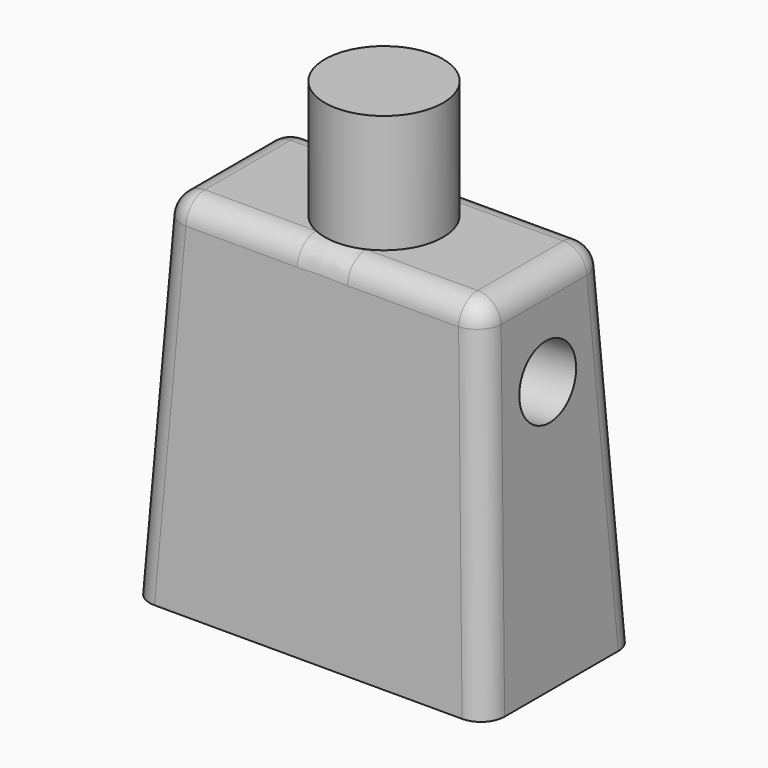
from build123d import *

# Parameters (mm, degrees)
F0_W      = 15
F0_H      = 8
F1_DEPTH  = 15
F1_TAPER  = 3
F2_R      = 2.5
F3_DEPTH  = 5
F4_R      = 1
F5_R      = 1.5
F6_DEPTH  = 3
F7_R      = 1.5
F6_FACE_R = 1.5
F8_DEPTH  = 3


with BuildPart() as f1:
    # F0 (on Top) → F1 (new body)
    with BuildSketch(Plane.XY):
        Rectangle(F0_W, F0_H)
    extrude(amount=F1_DEPTH, taper=F1_TAPER)

    # F2 (on face) → F3 (join)
    with BuildSketch(Plane.XY.offset(15)):
        Circle(F2_R)
    extrude(amount=F3_DEPTH)

    # F4
    f4_edges = [f1.edges().sort_by_distance(p)[0] for p in [
        (0, 3.213883, 15),
        (-7.106942, 3.606942, 7.5),
        (7.106942, 3.606942, 7.5),
        (-7.106942, -3.606942, 7.5),
        (-6.713883, 0, 15),
        (0, -3.213883, 15),
        (7.106942, -3.606942, 7.5),
        (6.713883, 0, 15),
    ]]
    fillet(f4_edges, radius=F4_R)

    # F5 (on face) → F6 (cut)
    with BuildSketch(Plane(origin=(-7.4794571076, 0, 0.3919817373), x_dir=(0, -1, 0), z_dir=(-0.9986295348, 0, 0.0523359562))):
        with Locations((0, 10.6777304862)):
            Circle(F5_R)
    extrude(amount=-F6_DEPTH, mode=Mode.SUBTRACT)

    # F7 (on face) + F6_face (on face) → F8 (cut)
    with BuildSketch(Plane(origin=(7.4794571076, 0, 0.3919817373), x_dir=(0, 1, 0), z_dir=(0.9986295348, 0, 0.0523359562))):
        with Locations((0, 10.6777304862)):
            Circle(F7_R)
    with BuildSketch(Plane(origin=(-3.9247392679, 0, 10.8980708962), x_dir=(0, -1, 0), z_dir=(-0.9986295348, 0, 0.0523359562))):
        Circle(F6_FACE_R)
    extrude(amount=-F8_DEPTH, dir=(0.9986295348, 0, 0.0523359562), mode=Mode.SUBTRACT)


solid = f1.part
